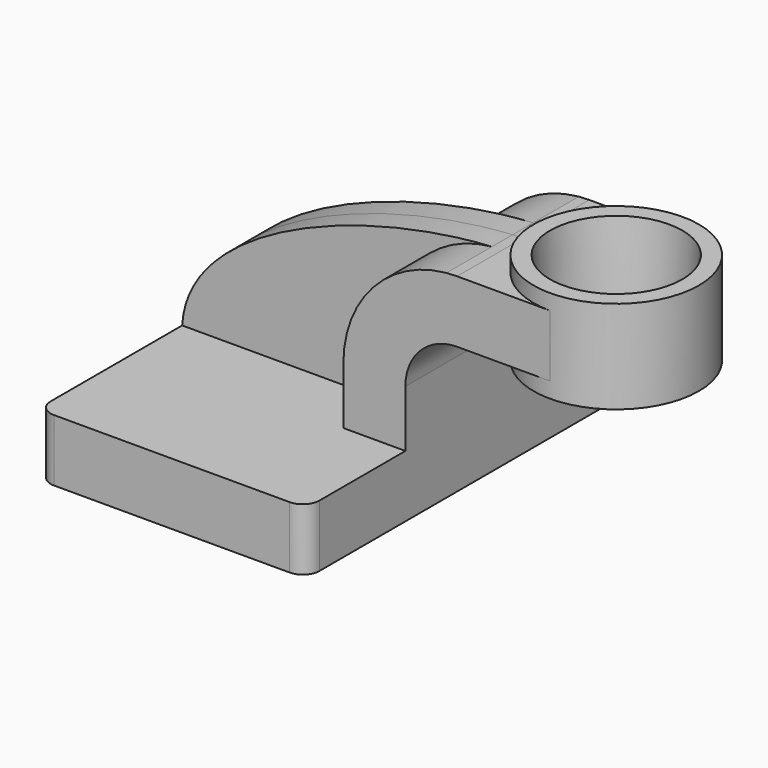
from build123d import *

# Parameters (mm, degrees)
F1_DEPTH = 63.5
F0_W     = 25.4
F0_H     = 19.05
F2_DEPTH = 25.4
F3_DEPTH = 7.9375
F5_R     = 5.08
F6_R     = 20.32
F7_DEPTH = 50.8
F7_TAPER = 3


with BuildPart() as f1:
    # F0 (on Front) → F1 (new body, symmetric)
    with BuildSketch(Plane.XZ):
        Polygon((22.225, 9.525), (-41.275, 9.525), (-41.275, -9.525), (41.275, -9.525), (41.275, 9.525), align=None)
    extrude(amount=F1_DEPTH, both=True)

    # F0 (on Front) → F2 (join, symmetric)
    with BuildSketch(Plane.XZ):
        with BuildLine():
            Line((22.225, 27.0002), (22.225, 9.525))
            Line((22.225, 9.525), (41.275, 9.525))
            Line((41.275, 9.525), (41.275, 27.0002))
            ThreePointArc((41.275, 27.0002), (45.9246798487, 38.2255201513), (57.15, 42.8752))
            Line((57.15, 42.8752), (60.325, 42.8752))
            Line((60.325, 42.8752), (60.325, 61.9252))
            Line((60.325, 61.9252), (57.15, 61.9252))
            add(Edge.make_bspline(
                [(53.8854342407, 61.7722898912), (54.9842067368, 61.8365871986), (56.0728453275, 61.8876096574), (57.15, 61.9252)],
                knots=[108.5245810491, 108.5245810491, 108.5245810491, 108.5245810491, 111.5045361635, 111.5045361635, 111.5045361635, 111.5045361635], degree=3))
            ThreePointArc((53.8854342407, 61.7722898912), (31.3258777096, 50.5133948686), (22.225, 27.0002))
        make_face()
        with Locations((73.025, 52.4002)):
            Rectangle(F0_W, F0_H)
    extrude(amount=F2_DEPTH, both=True)

    # F0 (on Front) → F3 (join, symmetric)
    with BuildSketch(Plane.XZ):
        with BuildLine():
            add(Edge.make_bspline(
                [(-41.275, 9.525), (-39.5856284224, 39.4828766469), (13.870125209, 59.4306981306), (53.8854342407, 61.7722898912)],
                knots=[0, 0, 0, 0, 108.5245810491, 108.5245810491, 108.5245810491, 108.5245810491], degree=3))
            Line((-41.275, 9.525), (22.225, 9.525))
            Line((22.225, 9.525), (22.225, 27.0002))
            ThreePointArc((22.225, 27.0002), (31.3258777096, 50.5133948686), (53.8854342407, 61.7722898912))
        make_face()
    extrude(amount=F3_DEPTH, both=True)

    # F0 (on Front) → F4 (revolve)
    with BuildSketch(Plane.XZ):
        Polygon((85.725, 66.675), (85.725, 61.9252), (85.725, 42.8752), (85.725, 38.1), (111.125, 38.1), (111.125, 66.675), align=None)
    revolve(axis=Axis((85.725, 0, 52.3875), (0, 0, 1)))

    # F5
    f5_edges = [f1.edges().sort_by_distance(p)[0] for p in [
        (41.275, -63.5, 0),
        (-41.275, -63.5, 0),
        (41.275, 63.5, 0),
        (-41.275, 63.5, 0),
    ]]
    fillet(f5_edges, radius=F5_R)

    # F6 (on face) → F7 (cut)
    with BuildSketch(Plane.XY.offset(66.675)):
        with Locations((85.725, 0)):
            Circle(F6_R)
    extrude(amount=-F7_DEPTH, taper=F7_TAPER, mode=Mode.SUBTRACT)


solid = f1.part
